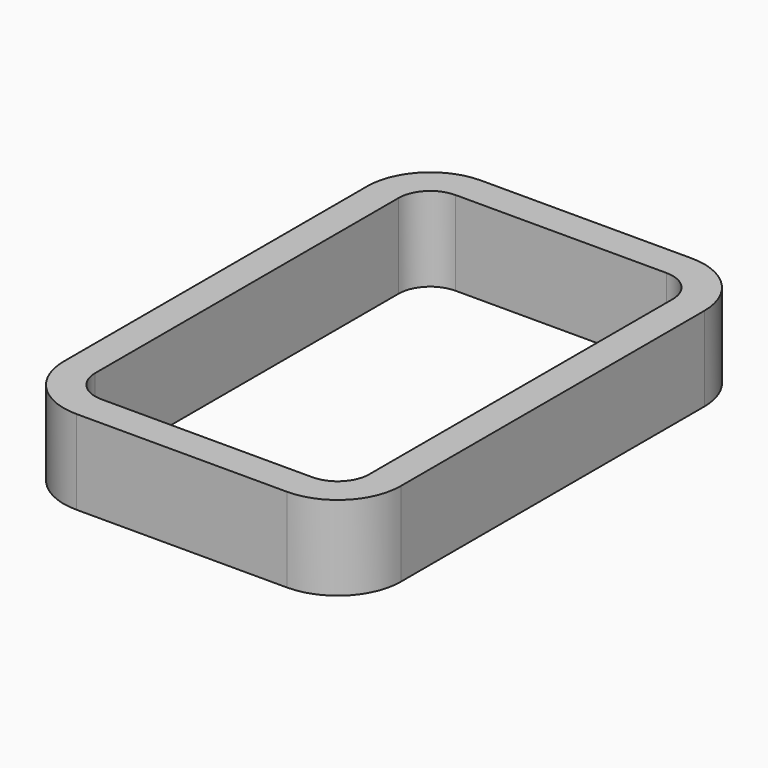
from build123d import *

# Parameters (mm, degrees)
F1_DEPTH = 25.4


with BuildPart() as f1:
    # F0 (on Top) → F1 (new body)
    with BuildSketch(Plane.XY):
        with BuildLine():
            Line((33.264447, 73.729024), (-30.235553, 73.729024))
            ThreePointArc((-30.235553, 73.729024), (-43.705937, 68.149408), (-49.285553, 54.679024))
            Line((-49.285553, 54.679024), (-49.285553, -59.620976))
            ThreePointArc((-49.285553, -59.620976), (-43.705937, -73.09136), (-30.235553, -78.670976))
            Line((-30.235553, -78.670976), (33.264447, -78.670976))
            ThreePointArc((33.264447, -78.670976), (46.734832, -73.09136), (52.314447, -59.620976))
            Line((52.314447, -59.620976), (52.314447, 54.679024))
            ThreePointArc((52.314447, 54.679024), (46.734832, 68.149408), (33.264447, 73.729024))
        make_face()
        with BuildLine():
            ThreePointArc((-39.788268, 54.679024), (-36.99846, 61.414216), (-30.263268, 64.204024))
            Line((-30.263268, 64.204024), (33.264447, 64.204024))
            ThreePointArc((33.264447, 64.204024), (39.999639, 61.414216), (42.789447, 54.679024))
            Line((42.789447, 54.679024), (42.789447, -59.620976))
            ThreePointArc((42.789447, -59.620976), (39.999639, -66.356168), (33.264447, -69.145976))
            Line((33.264447, -69.145976), (-30.263268, -69.145976))
            ThreePointArc((-30.263268, -69.145976), (-36.99846, -66.356168), (-39.788268, -59.620976))
            Line((-39.788268, -59.620976), (-39.788268, 54.679024))
        make_face(mode=Mode.SUBTRACT)
    extrude(amount=F1_DEPTH)


with BuildPart() as f2_1:
    # F2: copy of F1
    add(f1.part)


solid = Compound([f1.part, f2_1.part])
